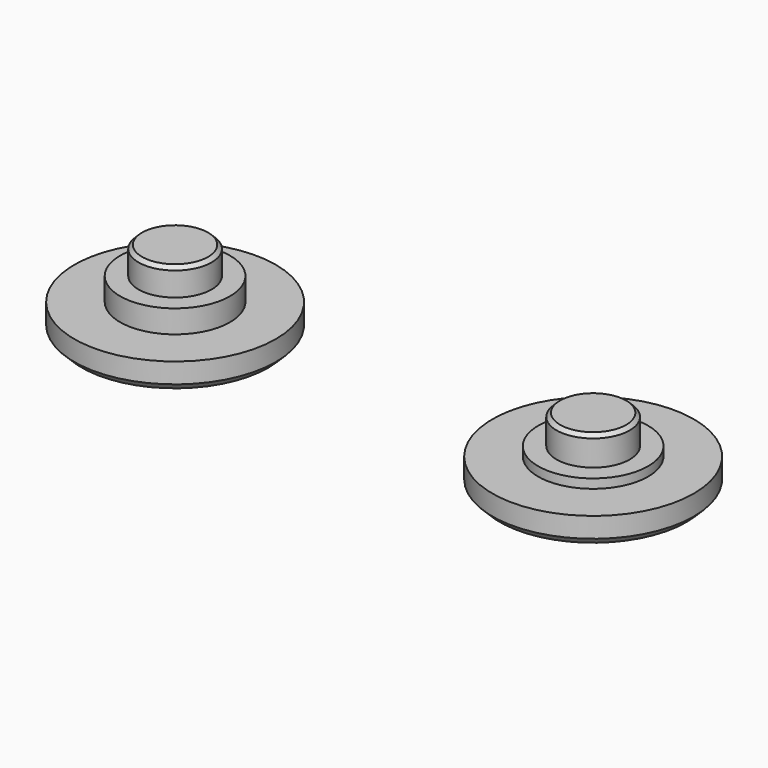
from build123d import *

# Parameters (mm, degrees)
F0_R      = 11
F0_R_2    = 6
F0_R_3    = 4
F1_DEPTH  = 3
F2_DEPTH  = 5.5
F3_DEPTH  = 8.5
F4_DEPTH  = 3
F5_DEPTH  = 4
F6_DEPTH  = 7.2
F7_SIZE   = 0.8
F7_2_SIZE = 0.8
F8_SIZE   = 0.4
F8_2_SIZE = 0.4


with BuildPart() as f1:
    # F0 (on Top) → F1 (new body)
    with BuildSketch(Plane.XY):
        with Locations((-45.653354, 0)):
            Circle(F0_R)
        with Locations((-45.653354, 0)):
            Circle(F0_R_2, mode=Mode.SUBTRACT)
        with Locations((-45.653354, 0)):
            Circle(F0_R_3)
        with Locations((-45.653354, 0)):
            Circle(F0_R_2)
        with Locations((-45.653354, 0)):
            Circle(F0_R_3, mode=Mode.SUBTRACT)
    extrude(amount=F1_DEPTH)

    # F0 (on Top) → F2 (join)
    with BuildSketch(Plane.XY):
        with Locations((-45.653354, 0)):
            Circle(F0_R_2)
        with Locations((-45.653354, 0)):
            Circle(F0_R_3, mode=Mode.SUBTRACT)
        with Locations((-45.653354, 0)):
            Circle(F0_R_3)
    extrude(amount=F2_DEPTH)

    # F0 (on Top) → F3 (join)
    with BuildSketch(Plane.XY):
        with Locations((-45.653354, 0)):
            Circle(F0_R_3)
    extrude(amount=F3_DEPTH)

    # F7
    f7_edges = [f1.edges().sort_by_distance(p)[0] for p in [
        (-56.653354, 0, 0),
    ]]
    chamfer(f7_edges, length=F7_SIZE)

    # F8
    f8_edges = [f1.edges().sort_by_distance(p)[0] for p in [
        (-49.653354, 0, 8.5),
    ]]
    chamfer(f8_edges, length=F8_SIZE)


with BuildPart() as f4:
    # F0 (on Top) → F4 (new body)
    with BuildSketch(Plane.XY):
        Circle(F0_R)
        Circle(F0_R_2, mode=Mode.SUBTRACT)
        Circle(F0_R_2)
        Circle(F0_R_3, mode=Mode.SUBTRACT)
        Circle(F0_R_3)
    extrude(amount=F4_DEPTH)

    # F0 (on Top) → F5 (join)
    with BuildSketch(Plane.XY):
        Circle(F0_R_3)
        Circle(F0_R_2)
        Circle(F0_R_3, mode=Mode.SUBTRACT)
    extrude(amount=F5_DEPTH)

    # F0 (on Top) → F6 (join)
    with BuildSketch(Plane.XY):
        Circle(F0_R_3)
    extrude(amount=F6_DEPTH)

    # F7#2
    f7_2_edges = [f4.edges().sort_by_distance(p)[0] for p in [
        (-11, 0, 0),
    ]]
    chamfer(f7_2_edges, length=F7_2_SIZE)

    # F8#2
    f8_2_edges = [f4.edges().sort_by_distance(p)[0] for p in [
        (-4, 0, 7.2),
    ]]
    chamfer(f8_2_edges, length=F8_2_SIZE)


solid = Compound([f1.part, f4.part])
